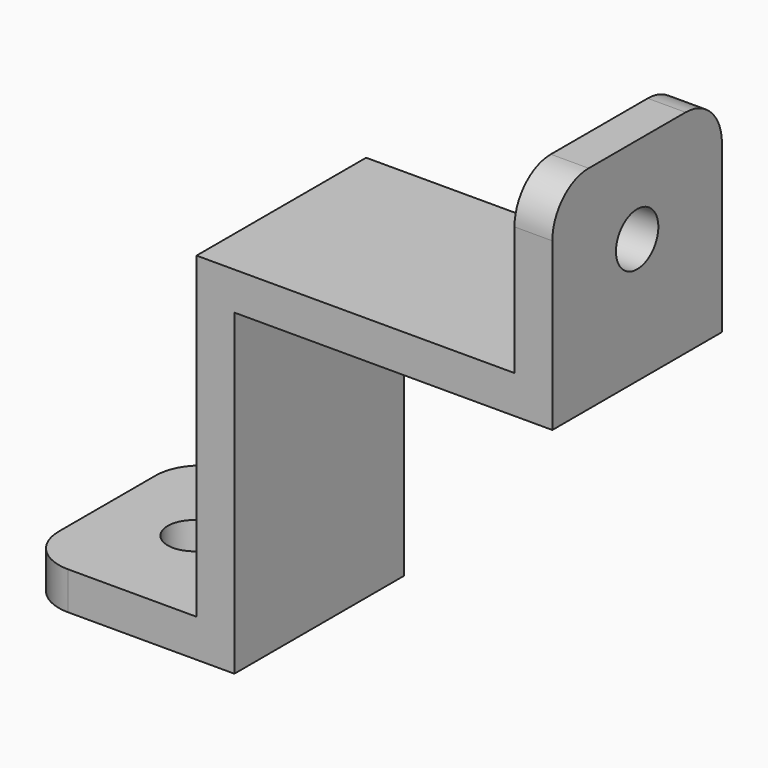
from build123d import *

# Parameters (mm, degrees)
F1_DEPTH = 14
F2_R     = 1.75
F3_DEPTH = 2.501
F4_R     = 1.75
F5_DEPTH = 25
F6_R     = 3


with BuildPart() as f1:
    # F0 (on Front) → F1 (new body)
    with BuildSketch(Plane.XZ):
        Polygon((-14, 0), (0, 0), (0, 21), (21, 21), (21, 35), (18.5, 35), (18.5, 23.5), (-2.5, 23.5), (-2.5, 2.5), (-14, 2.5), align=None)
    extrude(amount=F1_DEPTH)

    # F2 (on face) → F3 (cut, through all)
    with BuildSketch(Plane(origin=(18.5, 0, 0), x_dir=(0, -1, 0), z_dir=(-1, 0, 0))):
        with Locations((7, 29.25)):
            Circle(F2_R)
    extrude(amount=-F3_DEPTH, mode=Mode.SUBTRACT)

    # F4 (on face) → F5 (cut)
    with BuildSketch(Plane.XY.offset(2.5)):
        with Locations((-8.25, -7)):
            Circle(F4_R)
    extrude(amount=-F5_DEPTH, mode=Mode.SUBTRACT)

    # F6
    f6_edges = [f1.edges().sort_by_distance(p)[0] for p in [
        (-14, -14, 1.25),
        (-14, 0, 1.25),
        (19.75, -14, 35),
        (19.75, 0, 35),
    ]]
    fillet(f6_edges, radius=F6_R)


solid = f1.part
